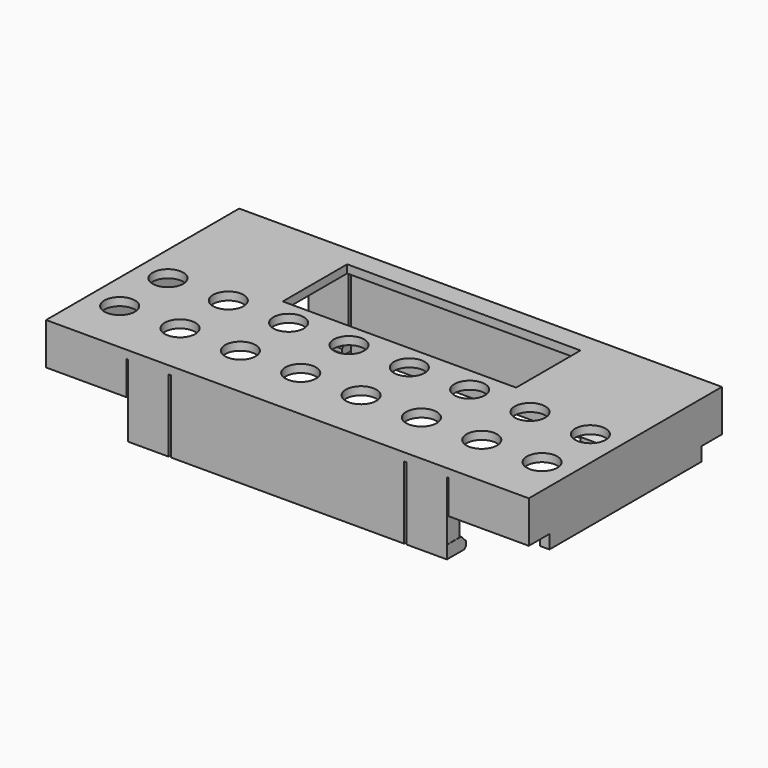
from build123d import *

# Parameters (mm, degrees)
BOX011_W                   = 1.2
BOX011_H                   = 23.6
BOX011_DEPTH               = 1.7
BOX008_W                   = 10
BOX008_H                   = 2
BOX008_DEPTH               = 4.2
BOX006_W                   = 5
BOX006_H                   = 2
BOX006_DEPTH               = 7.4
BOX004_W                   = 5
BOX004_H                   = 3
BOX004_DEPTH               = 1.6
CHAMFER004_1_SIZE          = 0.8
CHAMFER004_2_SIZE          = 0.3
CHAMFER004_PLACEMENT_ANGLE = 180
BOX003_W                   = 5
BOX003_H                   = 3
BOX003_DEPTH               = 1.6
CHAMFER005_1_SIZE          = 0.8
CHAMFER005_2_SIZE          = 0.3
CHAMFER005_PLACEMENT_ANGLE = 180
FUSION001_PLACEMENT_ANGLE  = 180
BOX005_W                   = 29
BOX005_H                   = 2
BOX005_DEPTH               = 9
BOX007_W                   = 5
BOX007_H                   = 2
BOX007_DEPTH               = 7.4
BOX009_W                   = 10
BOX009_H                   = 2
BOX009_DEPTH               = 4.2
BOX010_W                   = 1.2
BOX010_H                   = 26
BOX010_DEPTH               = 4.2
BOX019_W                   = 1.2
BOX019_H                   = 23.6
BOX019_DEPTH               = 1.7
BOX016_W                   = 10
BOX016_H                   = 2
BOX016_DEPTH               = 4.2
BOX017_W                   = 5
BOX017_H                   = 2
BOX017_DEPTH               = 7.4
BOX015_W                   = 5
BOX015_H                   = 3
BOX015_DEPTH               = 1.6
CHAMFER007_1_SIZE          = 0.8
CHAMFER007_2_SIZE          = 0.3
CHAMFER007_PLACEMENT_ANGLE = 180
BOX013_W                   = 5
BOX013_H                   = 3
BOX013_DEPTH               = 1.6
CHAMFER006_1_SIZE          = 0.8
CHAMFER006_2_SIZE          = 0.3
CHAMFER006_PLACEMENT_ANGLE = 180
FUSION003_PLACEMENT_ANGLE  = 180
BOX012_W                   = 29
BOX012_H                   = 2
BOX012_DEPTH               = 9
BOX018_W                   = 5
BOX018_H                   = 2
BOX018_DEPTH               = 7.4
BOX014_W                   = 10
BOX014_H                   = 2
BOX014_DEPTH               = 4.2
BOX020_W                   = 1.2
BOX020_H                   = 26
BOX020_DEPTH               = 4.2
FUSION004_PLACEMENT_ANGLE  = 180
CYLINDER006_R              = 1.9
CYLINDER006_DEPTH          = 10
CYLINDER005_R              = 1.9
CYLINDER005_DEPTH          = 10
CYLINDER007_R              = 1.9
CYLINDER007_DEPTH          = 10
CYLINDER004_R              = 1.9
CYLINDER004_DEPTH          = 10
CYLINDER010_R              = 1.9
CYLINDER010_DEPTH          = 10
CYLINDER009_R              = 1.9
CYLINDER009_DEPTH          = 10
CYLINDER011_R              = 1.9
CYLINDER011_DEPTH          = 10
CYLINDER008_R              = 1.9
CYLINDER008_DEPTH          = 10
CYLINDER014_R              = 1.9
CYLINDER014_DEPTH          = 10
CYLINDER013_R              = 1.9
CYLINDER013_DEPTH          = 10
CYLINDER015_R              = 1.9
CYLINDER015_DEPTH          = 10
CYLINDER012_R              = 1.9
CYLINDER012_DEPTH          = 10
CYLINDER003_R              = 1.9
CYLINDER003_DEPTH          = 10
CYLINDER002_R              = 1.9
CYLINDER002_DEPTH          = 10
CYLINDER_R                 = 1.9
CYLINDER_DEPTH             = 10
CYLINDER001_R              = 1.9
CYLINDER001_DEPTH          = 10
BOX021_W                   = 29
BOX021_H                   = 10
BOX021_DEPTH               = 10
BOX_W                      = 60
BOX_H                      = 25
BOX_DEPTH                  = 1.4
BOX022_W                   = 60
BOX022_H                   = 30
BOX022_DEPTH               = 1


with BuildPart() as obj1:
    # Box011 → Box011 (new body)
    with BuildSketch(Plane(origin=(28.8, -11.8, 7), x_dir=(1, 0, 0), z_dir=(0, 0, 1))):
        with Locations((0.6, 11.8)):
            Rectangle(BOX011_W, BOX011_H)
    extrude(amount=BOX011_DEPTH)


with BuildPart() as obj2:
    # Box008 → Box008 (new body)
    with BuildSketch(Plane(origin=(20, -15, 8.7), x_dir=(1, 0, 0), z_dir=(0, 0, 1))):
        with Locations((5, 1)):
            Rectangle(BOX008_W, BOX008_H)
    extrude(amount=BOX008_DEPTH)


with BuildPart() as obj3:
    # Box006 → Box006 (new body)
    with BuildSketch(Plane(origin=(14.8, -15, 5.5), x_dir=(1, 0, 0), z_dir=(0, 0, 1))):
        with Locations((2.5, 1)):
            Rectangle(BOX006_W, BOX006_H)
    extrude(amount=BOX006_DEPTH)


with BuildPart() as chamfer004:
    # Box004 → Box004 (new body)
    with BuildSketch(Plane(origin=(-30, 12, 6.9), x_dir=(1, 0, 0), z_dir=(0, 0, 1))):
        with Locations((2.5, 1.5)):
            Rectangle(BOX004_W, BOX004_H)
    extrude(amount=BOX004_DEPTH)

    # Chamfer004 1
    chamfer004_1_edges = [chamfer004.edges().sort_by_distance(p)[0] for p in [
        (-27.5, 12, 6.9),
    ]]
    chamfer(chamfer004_1_edges, length=CHAMFER004_1_SIZE)

    # Chamfer004 2
    chamfer004_2_edges = [chamfer004.edges().sort_by_distance(p)[0] for p in [
        (-27.5, 12, 8.5),
    ]]
    chamfer(chamfer004_2_edges, length=CHAMFER004_2_SIZE)


with BuildPart() as chamfer004_1:
    # Chamfer004 placement: moved
    add(chamfer004.part.moved(Location((-10.2, 0, 12.4))).rotate(Axis((-10.2, 0, 12.4), (0, 1, 0)), CHAMFER004_PLACEMENT_ANGLE))


with BuildPart() as obj4:
    # Box003 → Box003 (new body)
    with BuildSketch(Plane(origin=(-30, 12, 6.9), x_dir=(1, 0, 0), z_dir=(0, 0, 1))):
        with Locations((2.5, 1.5)):
            Rectangle(BOX003_W, BOX003_H)
    extrude(amount=BOX003_DEPTH)

    # Chamfer005 1
    chamfer005_1_edges = [obj4.edges().sort_by_distance(p)[0] for p in [
        (-27.5, 12, 6.9),
    ]]
    chamfer(chamfer005_1_edges, length=CHAMFER005_1_SIZE)

    # Chamfer005 2
    chamfer005_2_edges = [obj4.edges().sort_by_distance(p)[0] for p in [
        (-27.5, 12, 8.5),
    ]]
    chamfer(chamfer005_2_edges, length=CHAMFER005_2_SIZE)


with BuildPart() as obj4_1:
    # Chamfer005 placement: moved
    add(obj4.part.moved(Location((-44.82, 0, 12.4))).rotate(Axis((-44.82, 0, 12.4), (0, 1, 0)), CHAMFER005_PLACEMENT_ANGLE))

    # Fusion001: union Chamfer004
    add(chamfer004_1.part)


with BuildPart() as obj4_2:
    # Fusion001 placement: moved
    add(obj4_1.part.rotate(Axis((0, 0, 0), (0, 0, 1)), FUSION001_PLACEMENT_ANGLE))


with BuildPart() as obj5:
    # Box005 → Box005 (new body)
    with BuildSketch(Plane(origin=(-14.5, -15, 3.9), x_dir=(1, 0, 0), z_dir=(0, 0, 1))):
        with Locations((14.5, 1)):
            Rectangle(BOX005_W, BOX005_H)
    extrude(amount=BOX005_DEPTH)


with BuildPart() as obj6:
    # Box007 → Box007 (new body)
    with BuildSketch(Plane(origin=(-19.8, -15, 5.5), x_dir=(1, 0, 0), z_dir=(0, 0, 1))):
        with Locations((2.5, 1)):
            Rectangle(BOX007_W, BOX007_H)
    extrude(amount=BOX007_DEPTH)


with BuildPart() as obj7:
    # Box009 → Box009 (new body)
    with BuildSketch(Plane(origin=(-30, -15, 8.7), x_dir=(1, 0, 0), z_dir=(0, 0, 1))):
        with Locations((5, 1)):
            Rectangle(BOX009_W, BOX009_H)
    extrude(amount=BOX009_DEPTH)


with BuildPart() as fusion002:
    # Box010 → Box010 (new body)
    with BuildSketch(Plane(origin=(28.8, -13, 8.7), x_dir=(1, 0, 0), z_dir=(0, 0, 1))):
        with Locations((0.6, 13)):
            Rectangle(BOX010_W, BOX010_H)
    extrude(amount=BOX010_DEPTH)

    # Fusion002: union obj1, obj2, obj3, obj4, obj5, obj6, obj7
    add(obj1.part)
    add(obj2.part)
    add(obj3.part)
    add(obj4_2.part)
    add(obj5.part)
    add(obj6.part)
    add(obj7.part)


with BuildPart() as obj8:
    # Box019 → Box019 (new body)
    with BuildSketch(Plane(origin=(28.8, -11.8, 7), x_dir=(1, 0, 0), z_dir=(0, 0, 1))):
        with Locations((0.6, 11.8)):
            Rectangle(BOX019_W, BOX019_H)
    extrude(amount=BOX019_DEPTH)


with BuildPart() as obj9:
    # Box016 → Box016 (new body)
    with BuildSketch(Plane(origin=(20, -15, 8.7), x_dir=(1, 0, 0), z_dir=(0, 0, 1))):
        with Locations((5, 1)):
            Rectangle(BOX016_W, BOX016_H)
    extrude(amount=BOX016_DEPTH)


with BuildPart() as obj10:
    # Box017 → Box017 (new body)
    with BuildSketch(Plane(origin=(14.8, -15, 5.5), x_dir=(1, 0, 0), z_dir=(0, 0, 1))):
        with Locations((2.5, 1)):
            Rectangle(BOX017_W, BOX017_H)
    extrude(amount=BOX017_DEPTH)


with BuildPart() as chamfer007:
    # Box015 → Box015 (new body)
    with BuildSketch(Plane(origin=(-30, 12, 6.9), x_dir=(1, 0, 0), z_dir=(0, 0, 1))):
        with Locations((2.5, 1.5)):
            Rectangle(BOX015_W, BOX015_H)
    extrude(amount=BOX015_DEPTH)

    # Chamfer007 1
    chamfer007_1_edges = [chamfer007.edges().sort_by_distance(p)[0] for p in [
        (-27.5, 12, 6.9),
    ]]
    chamfer(chamfer007_1_edges, length=CHAMFER007_1_SIZE)

    # Chamfer007 2
    chamfer007_2_edges = [chamfer007.edges().sort_by_distance(p)[0] for p in [
        (-27.5, 12, 8.5),
    ]]
    chamfer(chamfer007_2_edges, length=CHAMFER007_2_SIZE)


with BuildPart() as chamfer007_1:
    # Chamfer007 placement: moved
    add(chamfer007.part.moved(Location((-10.2, 0, 12.4))).rotate(Axis((-10.2, 0, 12.4), (0, 1, 0)), CHAMFER007_PLACEMENT_ANGLE))


with BuildPart() as obj11:
    # Box013 → Box013 (new body)
    with BuildSketch(Plane(origin=(-30, 12, 6.9), x_dir=(1, 0, 0), z_dir=(0, 0, 1))):
        with Locations((2.5, 1.5)):
            Rectangle(BOX013_W, BOX013_H)
    extrude(amount=BOX013_DEPTH)

    # Chamfer006 1
    chamfer006_1_edges = [obj11.edges().sort_by_distance(p)[0] for p in [
        (-27.5, 12, 6.9),
    ]]
    chamfer(chamfer006_1_edges, length=CHAMFER006_1_SIZE)

    # Chamfer006 2
    chamfer006_2_edges = [obj11.edges().sort_by_distance(p)[0] for p in [
        (-27.5, 12, 8.5),
    ]]
    chamfer(chamfer006_2_edges, length=CHAMFER006_2_SIZE)


with BuildPart() as obj11_1:
    # Chamfer006 placement: moved
    add(obj11.part.moved(Location((-44.82, 0, 12.4))).rotate(Axis((-44.82, 0, 12.4), (0, 1, 0)), CHAMFER006_PLACEMENT_ANGLE))

    # Fusion003: union Chamfer007
    add(chamfer007_1.part)


with BuildPart() as obj11_2:
    # Fusion003 placement: moved
    add(obj11_1.part.rotate(Axis((0, 0, 0), (0, 0, 1)), FUSION003_PLACEMENT_ANGLE))


with BuildPart() as obj12:
    # Box012 → Box012 (new body)
    with BuildSketch(Plane(origin=(-14.5, -15, 3.9), x_dir=(1, 0, 0), z_dir=(0, 0, 1))):
        with Locations((14.5, 1)):
            Rectangle(BOX012_W, BOX012_H)
    extrude(amount=BOX012_DEPTH)


with BuildPart() as obj13:
    # Box018 → Box018 (new body)
    with BuildSketch(Plane(origin=(-19.8, -15, 5.5), x_dir=(1, 0, 0), z_dir=(0, 0, 1))):
        with Locations((2.5, 1)):
            Rectangle(BOX018_W, BOX018_H)
    extrude(amount=BOX018_DEPTH)


with BuildPart() as obj14:
    # Box014 → Box014 (new body)
    with BuildSketch(Plane(origin=(-30, -15, 8.7), x_dir=(1, 0, 0), z_dir=(0, 0, 1))):
        with Locations((5, 1)):
            Rectangle(BOX014_W, BOX014_H)
    extrude(amount=BOX014_DEPTH)


with BuildPart() as fusion004:
    # Box020 → Box020 (new body)
    with BuildSketch(Plane(origin=(28.8, -13, 8.7), x_dir=(1, 0, 0), z_dir=(0, 0, 1))):
        with Locations((0.6, 13)):
            Rectangle(BOX020_W, BOX020_H)
    extrude(amount=BOX020_DEPTH)

    # Fusion004: union obj8, obj9, obj10, obj11, obj12, obj13, obj14
    add(obj8.part)
    add(obj9.part)
    add(obj10.part)
    add(obj11_2.part)
    add(obj12.part)
    add(obj13.part)
    add(obj14.part)


with BuildPart() as fusion004_1:
    # Fusion004 placement: moved
    add(fusion004.part.rotate(Axis((0, 0, 0), (0, 0, 1)), FUSION004_PLACEMENT_ANGLE))


with BuildPart() as zylinder006:
    # Cylinder006 → Cylinder006 (new body)
    with BuildSketch(Plane(origin=(-26.25, -8.75, 6), x_dir=(1, 0, 0), z_dir=(0, 0, 1))):
        Circle(CYLINDER006_R)
    extrude(amount=CYLINDER006_DEPTH)


with BuildPart() as fusion009:
    # Cylinder005 → Cylinder005 (new body)
    with BuildSketch(Plane(origin=(-26.25, -1.25, 6), x_dir=(1, 0, 0), z_dir=(0, 0, 1))):
        Circle(CYLINDER005_R)
    extrude(amount=CYLINDER005_DEPTH)

    # Fusion009: union Zylinder006
    add(zylinder006.part)


with BuildPart() as fusion009_1:
    # Fusion009 placement: moved
    add(fusion009.part.moved(Location((7.5, 0, 0))))


with BuildPart() as zylinder007:
    # Cylinder007 → Cylinder007 (new body)
    with BuildSketch(Plane(origin=(-26.25, -8.75, 6), x_dir=(1, 0, 0), z_dir=(0, 0, 1))):
        Circle(CYLINDER007_R)
    extrude(amount=CYLINDER007_DEPTH)


with BuildPart() as fusion008:
    # Cylinder004 → Cylinder004 (new body)
    with BuildSketch(Plane(origin=(-26.25, -1.25, 6), x_dir=(1, 0, 0), z_dir=(0, 0, 1))):
        Circle(CYLINDER004_R)
    extrude(amount=CYLINDER004_DEPTH)

    # Fusion007: union Zylinder007
    add(zylinder007.part)

    # Fusion008: union Fusion009
    add(fusion009_1.part)


with BuildPart() as fusion008_1:
    # Fusion008 placement: moved
    add(fusion008.part.moved(Location((15, 0, 0))))


with BuildPart() as zylinder010:
    # Cylinder010 → Cylinder010 (new body)
    with BuildSketch(Plane(origin=(-26.25, -8.75, 6), x_dir=(1, 0, 0), z_dir=(0, 0, 1))):
        Circle(CYLINDER010_R)
    extrude(amount=CYLINDER010_DEPTH)


with BuildPart() as fusion012:
    # Cylinder009 → Cylinder009 (new body)
    with BuildSketch(Plane(origin=(-26.25, -1.25, 6), x_dir=(1, 0, 0), z_dir=(0, 0, 1))):
        Circle(CYLINDER009_R)
    extrude(amount=CYLINDER009_DEPTH)

    # Fusion012: union Zylinder010
    add(zylinder010.part)


with BuildPart() as fusion012_1:
    # Fusion012 placement: moved
    add(fusion012.part.moved(Location((7.5, 0, 0))))


with BuildPart() as zylinder011:
    # Cylinder011 → Cylinder011 (new body)
    with BuildSketch(Plane(origin=(-26.25, -8.75, 6), x_dir=(1, 0, 0), z_dir=(0, 0, 1))):
        Circle(CYLINDER011_R)
    extrude(amount=CYLINDER011_DEPTH)


with BuildPart() as fusion011:
    # Cylinder008 → Cylinder008 (new body)
    with BuildSketch(Plane(origin=(-26.25, -1.25, 6), x_dir=(1, 0, 0), z_dir=(0, 0, 1))):
        Circle(CYLINDER008_R)
    extrude(amount=CYLINDER008_DEPTH)

    # Fusion010: union Zylinder011
    add(zylinder011.part)

    # Fusion011: union Fusion012
    add(fusion012_1.part)


with BuildPart() as fusion011_1:
    # Fusion011 placement: moved
    add(fusion011.part.moved(Location((30, 0, 0))))


with BuildPart() as zylinder014:
    # Cylinder014 → Cylinder014 (new body)
    with BuildSketch(Plane(origin=(-26.25, -8.75, 6), x_dir=(1, 0, 0), z_dir=(0, 0, 1))):
        Circle(CYLINDER014_R)
    extrude(amount=CYLINDER014_DEPTH)


with BuildPart() as fusion015:
    # Cylinder013 → Cylinder013 (new body)
    with BuildSketch(Plane(origin=(-26.25, -1.25, 6), x_dir=(1, 0, 0), z_dir=(0, 0, 1))):
        Circle(CYLINDER013_R)
    extrude(amount=CYLINDER013_DEPTH)

    # Fusion015: union Zylinder014
    add(zylinder014.part)


with BuildPart() as fusion015_1:
    # Fusion015 placement: moved
    add(fusion015.part.moved(Location((7.5, 0, 0))))


with BuildPart() as zylinder015:
    # Cylinder015 → Cylinder015 (new body)
    with BuildSketch(Plane(origin=(-26.25, -8.75, 6), x_dir=(1, 0, 0), z_dir=(0, 0, 1))):
        Circle(CYLINDER015_R)
    extrude(amount=CYLINDER015_DEPTH)


with BuildPart() as fusion014:
    # Cylinder012 → Cylinder012 (new body)
    with BuildSketch(Plane(origin=(-26.25, -1.25, 6), x_dir=(1, 0, 0), z_dir=(0, 0, 1))):
        Circle(CYLINDER012_R)
    extrude(amount=CYLINDER012_DEPTH)

    # Fusion013: union Zylinder015
    add(zylinder015.part)

    # Fusion014: union Fusion015
    add(fusion015_1.part)


with BuildPart() as fusion014_1:
    # Fusion014 placement: moved
    add(fusion014.part.moved(Location((45, 0, 0))))


with BuildPart() as zylinder003:
    # Cylinder003 → Cylinder003 (new body)
    with BuildSketch(Plane(origin=(-26.25, -8.75, 6), x_dir=(1, 0, 0), z_dir=(0, 0, 1))):
        Circle(CYLINDER003_R)
    extrude(amount=CYLINDER003_DEPTH)


with BuildPart() as fusion005:
    # Cylinder002 → Cylinder002 (new body)
    with BuildSketch(Plane(origin=(-26.25, -1.25, 6), x_dir=(1, 0, 0), z_dir=(0, 0, 1))):
        Circle(CYLINDER002_R)
    extrude(amount=CYLINDER002_DEPTH)

    # Fusion005: union Zylinder003
    add(zylinder003.part)


with BuildPart() as fusion005_1:
    # Fusion005 placement: moved
    add(fusion005.part.moved(Location((7.5, 0, 0))))


with BuildPart() as zylinder:
    # Cylinder → Cylinder (new body)
    with BuildSketch(Plane(origin=(-26.25, -8.75, 6), x_dir=(1, 0, 0), z_dir=(0, 0, 1))):
        Circle(CYLINDER_R)
    extrude(amount=CYLINDER_DEPTH)


with BuildPart() as obj15:
    # Cylinder001 → Cylinder001 (new body)
    with BuildSketch(Plane(origin=(-26.25, -1.25, 6), x_dir=(1, 0, 0), z_dir=(0, 0, 1))):
        Circle(CYLINDER001_R)
    extrude(amount=CYLINDER001_DEPTH)

    # Fusion: union Zylinder
    add(zylinder.part)

    # Fusion006: union Fusion005
    add(fusion005_1.part)

    # Fusion016: union Fusion008, Fusion011, Fusion014
    add(fusion008_1.part)
    add(fusion011_1.part)
    add(fusion014_1.part)


with BuildPart() as obj15_1:
    # Fusion016 placement: moved
    add(obj15.part.moved(Location((0, 0.5, 0))))


with BuildPart() as obj16:
    # Box021 → Box021 (new body)
    with BuildSketch(Plane(origin=(-14.5, 2.4, 7), x_dir=(1, 0, 0), z_dir=(0, 0, 1))):
        with Locations((14.5, 5)):
            Rectangle(BOX021_W, BOX021_H)
    extrude(amount=BOX021_DEPTH)


with BuildPart() as obj17:
    # Box → Box (new body)
    with BuildSketch(Plane(origin=(-30, -12.5, 5.5), x_dir=(1, 0, 0), z_dir=(0, 0, 1))):
        with Locations((30, 12.5)):
            Rectangle(BOX_W, BOX_H)
    extrude(amount=BOX_DEPTH)

    # Fusion017: union obj15, obj16
    add(obj15_1.part)
    add(obj16.part)


with BuildPart() as deckel:
    # Box022 → Box022 (new body)
    with BuildSketch(Plane(origin=(-30, -15, 12.9), x_dir=(1, 0, 0), z_dir=(0, 0, 1))):
        with Locations((30, 15)):
            Rectangle(BOX022_W, BOX022_H)
    extrude(amount=BOX022_DEPTH)

    # Cut001: cut obj17.
    add(obj17.part, mode=Mode.SUBTRACT)

    # Fusion018: union Fusion002, Fusion004
    add(fusion002.part)
    add(fusion004_1.part)


solid = deckel.part
